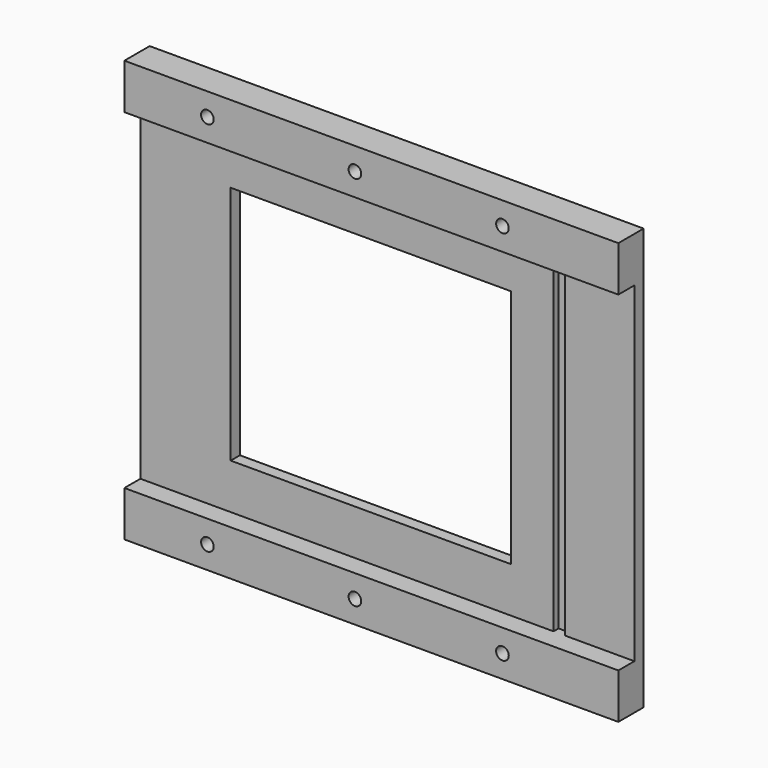
from build123d import *

# Parameters (mm, degrees)
F0_W      = 125
F0_H      = 100
F0_W_2    = 66.56
F0_H_2    = 57
F1_DEPTH  = 7.5
F2_W      = 174.649224
F2_H      = 78.5
F3_DEPTH  = 4.75
F4_W      = 2.74
F4_H      = 78.5
F5_DEPTH  = 1.5
F6_W      = 7.8
F6_H      = 78.5
F7_DEPTH  = 4.75
F8_W      = 7.8
F8_H      = 100
F9_DEPTH  = 25
F10_R     = 1.5
F11_DEPTH = 25
F12_R     = 1.5
F13_DEPTH = 25


with BuildPart() as f1:
    # F0 (on Front) → F1 (new body)
    with BuildSketch(Plane.XZ):
        Rectangle(F0_W, F0_H)
        Rectangle(F0_W_2, F0_H_2, mode=Mode.SUBTRACT)
    extrude(amount=F1_DEPTH)

    # F2 (on face) → F3 (cut)
    with BuildSketch(Plane.XZ.offset(7.5)):
        Rectangle(F2_W, F2_H)
    extrude(amount=-F3_DEPTH, mode=Mode.SUBTRACT)

    # F4 (on face) → F5 (cut)
    with BuildSketch(Plane.XZ.offset(2.75)):
        with Locations((44.69, 0)):
            Rectangle(F4_W, F4_H)
    extrude(amount=-F5_DEPTH, mode=Mode.SUBTRACT)

    # F6 (on face) → F7 (join)
    with BuildSketch(Plane.XZ.offset(2.75)):
        with Locations((-58.6, 0)):
            Rectangle(F6_W, F6_H)
    extrude(amount=F7_DEPTH)

    # F8 (on face) → F9 (cut)
    with BuildSketch(Plane.XZ.offset(7.5)):
        with Locations((-58.6, 0)):
            Rectangle(F8_W, F8_H)
    extrude(amount=-F9_DEPTH, mode=Mode.SUBTRACT)

    # F10 (on face) → F11 (cut)
    with BuildSketch(Plane.XZ.offset(7.5)):
        with Locations((0, 44.625)):
            Circle(F10_R)
        with Locations((-35, 44.625)):
            Circle(F10_R)
        with Locations((35, 44.625)):
            Circle(F10_R)
    extrude(amount=-F11_DEPTH, mode=Mode.SUBTRACT)

    # F12 (on face) → F13 (cut)
    with BuildSketch(Plane.XZ.offset(7.5)):
        with Locations((0, -44.625)):
            Circle(F12_R)
        with Locations((35, -44.625)):
            Circle(F12_R)
        with Locations((-35, -44.625)):
            Circle(F12_R)
    extrude(amount=-F13_DEPTH, mode=Mode.SUBTRACT)


solid = f1.part
